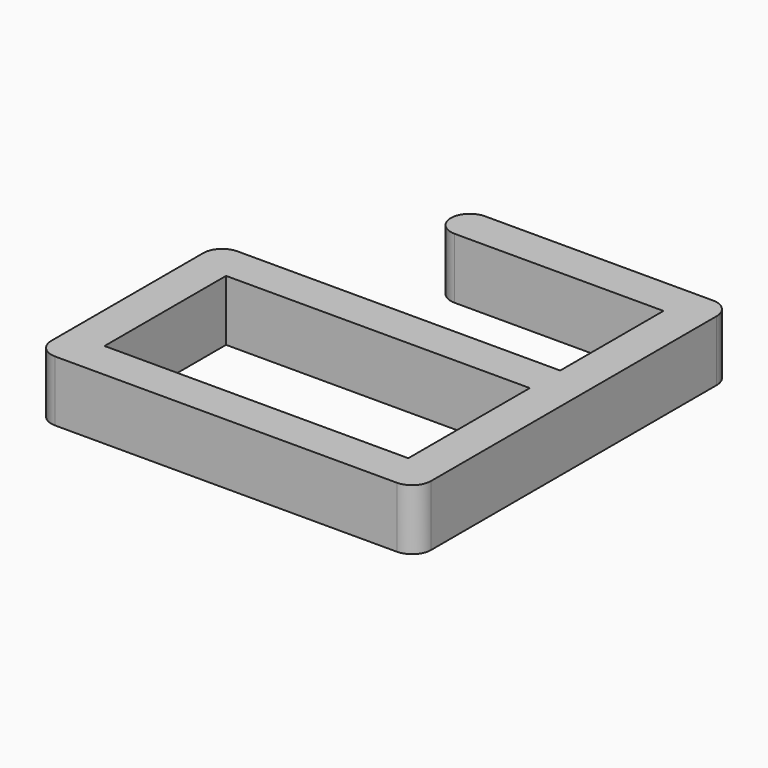
from build123d import *

# Parameters (mm, degrees)
F0_W     = 40
F0_H     = 20
F1_DEPTH = 8


with BuildPart() as f1:
    # F0 (on Top) → F1 (new body)
    with BuildSketch(Plane.XY):
        with BuildLine():
            Line((40, 25), (-2.5, 25))
            ThreePointArc((-2.5, 25), (-4.267767, 24.267767), (-5, 22.5))
            Line((-5, 22.5), (-5, -2.5))
            ThreePointArc((-5, -2.5), (-4.267767, -4.267767), (-2.5, -5))
            Line((-2.5, -5), (42.5, -5))
            ThreePointArc((42.5, -5), (44.267767, -4.267767), (45, -2.5))
            Line((45, -2.5), (45, 25))
            Line((45, 25), (45, 44.5))
            ThreePointArc((45, 44.5), (44.267767, 46.267767), (42.5, 47))
            Line((42.5, 47), (12.5, 47))
            ThreePointArc((12.5, 47), (10.732233, 46.267767), (10, 44.5))
            ThreePointArc((10, 44.5), (10.732233, 42.732233), (12.5, 42))
            Line((12.5, 42), (40, 42))
            Line((40, 42), (40, 25))
        make_face()
        with Locations((20, 10)):
            Rectangle(F0_W, F0_H, mode=Mode.SUBTRACT)
    extrude(amount=F1_DEPTH)


solid = f1.part
